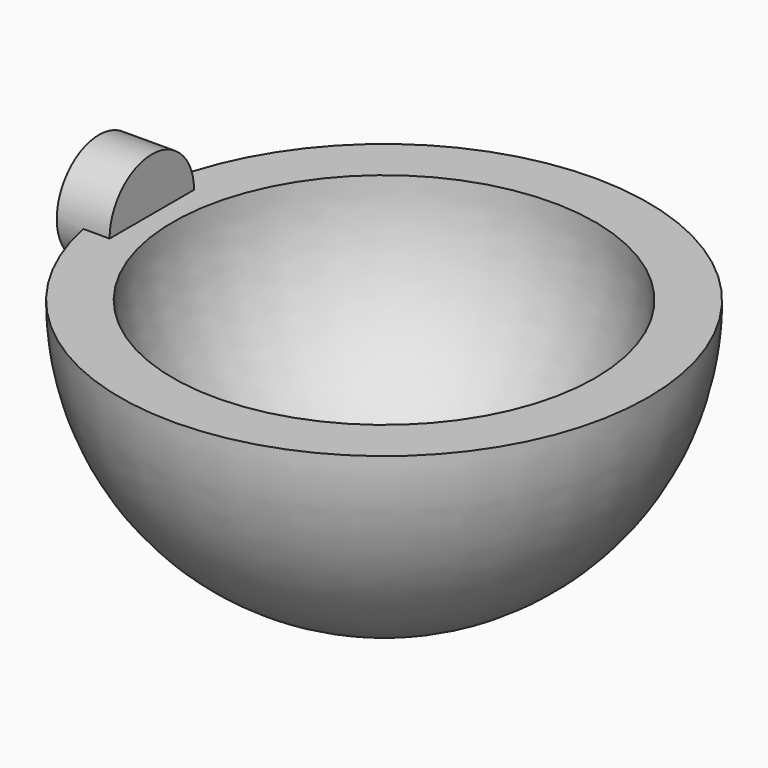
from build123d import *

# Parameters (mm, degrees)
F4_R          = 2.54
F5_DEPTH      = 1.016
F5_DEPTH_BACK = 1.524


with BuildPart() as f1:
    # F0 (on Front) → F1 (revolve)
    with BuildSketch(Plane.XZ):
        with BuildLine():
            Line((0, -10.16), (0, -12.7))
            ThreePointArc((0, -12.7), (8.980256, -8.980256), (12.7, 0))
            Line((12.7, 0), (10.16, 0))
            ThreePointArc((10.16, 0), (7.184205, -7.184205), (0, -10.16))
        make_face()
    revolve(axis=Axis((0, 0, -11.43), (0, 0, -1)))

    # F4 (on face) → F5 (join, two sides)
    with BuildSketch(Plane(origin=(-12.7, 0, 0), x_dir=(0, -1, 0), z_dir=(-1, 0, 0))) as f5_sk:
        Circle(F4_R)
    extrude(amount=F5_DEPTH)
    extrude(f5_sk.sketch, amount=-F5_DEPTH_BACK)


solid = f1.part
